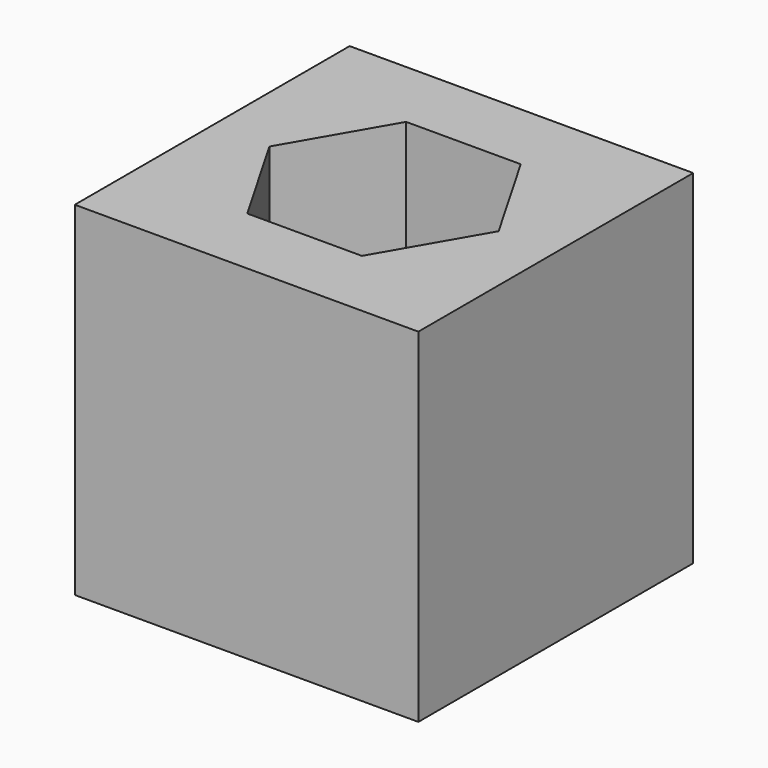
from build123d import *

# Parameters (mm, degrees)
F0_W     = 152.4
F0_H     = 152.4
F1_DEPTH = 152.4
F3_DEPTH = 152.4


with BuildPart() as f1:
    # F0 (on Top) → F1 (new body)
    with BuildSketch(Plane.XY):
        Rectangle(F0_W, F0_H)
    extrude(amount=F1_DEPTH)

    # F2 (on face) → F3 (cut)
    with BuildSketch(Plane.XY.offset(152.4)):
        Polygon((-25.422659, 44.033968), (-50.845865, 0.000315), (-25.423205, -44.033653), (25.422659, -44.033968), (50.845865, -0.000315), (25.423205, 44.033653), align=None)
    extrude(amount=-F3_DEPTH, mode=Mode.SUBTRACT)


solid = f1.part
